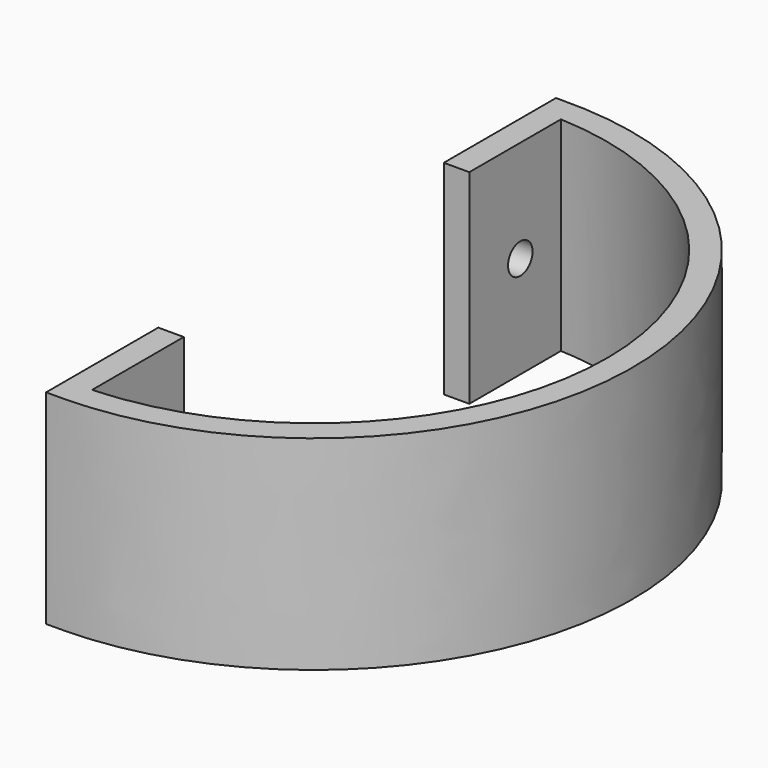
from build123d import *

# Parameters (mm, degrees)
F0_W     = 254
F0_H     = 2032
F5_D     = 304.8
F5_DEPTH = 254
F5_TIP   = 91.5711583398


with BuildPart() as f2:
    # F2: sweep along a path in F1
    with BuildLine(Plane.XY) as f2_path:
        Line((0, 0), (0, 1270))
        ThreePointArc((0, 1270), (3048, -1778), (0, -4826))
        Line((0, -4826), (0, -3556))
    # F0 (on Front) → F2 (sweep)
    with BuildSketch(Plane.XZ):
        Rectangle(F0_W, F0_H)
    sweep(path=f2_path.line, transition=Transition.RIGHT)

    # F5
    with Locations(Plane(origin=(-127, 0, 0), x_dir=(0, -1, 0), z_dir=(-1, 0, 0))):
        with Locations((4191, 0), (-635, 0)):
            Hole(F5_D / 2, depth=F5_DEPTH)
            with Locations((0, 0, -(F5_DEPTH + F5_TIP / 2))):  # 118° drill point
                Cone(0, F5_D / 2, F5_TIP, mode=Mode.SUBTRACT)


solid = f2.part
